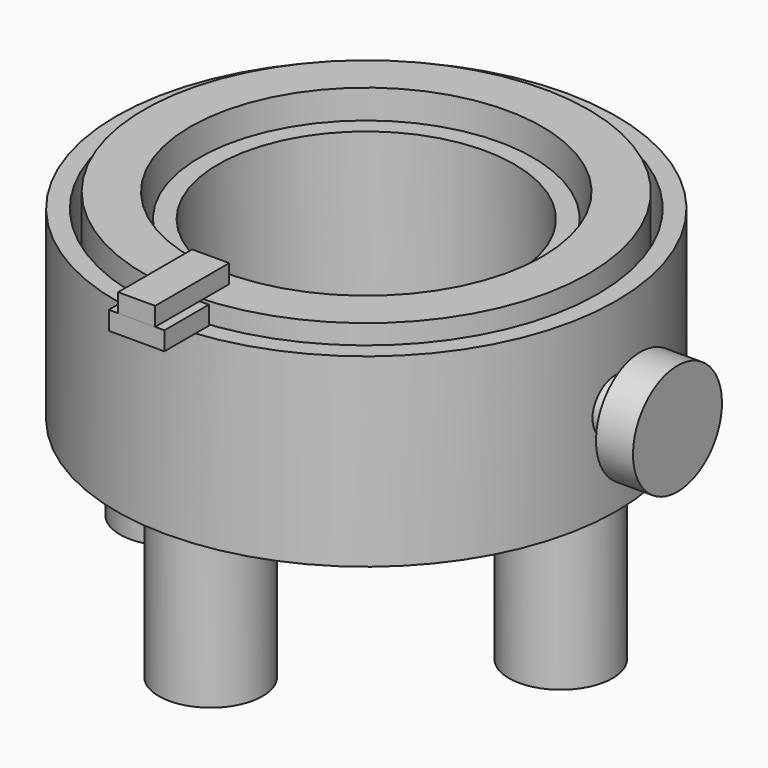
from build123d import *

# Parameters (mm, degrees)
SKETCH_W                = 10
SKETCH_H                = 100
SKETCH001_W             = 25
SKETCH001_H             = 105
SKETCH002_W             = 10
SKETCH002_H             = 95
CYLINDER_R              = 15
CYLINDER_DEPTH          = 30
CYLINDER_PITCH_ANGLE    = 90
CYLINDER001_R           = 30
CYLINDER001_DEPTH       = 20
CYLINDER001_PITCH_ANGLE = 90
CYLINDER002_R           = 28
CYLINDER002_DEPTH       = 80
ARRAY_COUNT             = 4
BOX_W                   = 30
BOX_H                   = 30
BOX_DEPTH               = 10
BOX001_W                = 20
BOX001_H                = 50
BOX001_DEPTH            = 10


with BuildPart() as revolution:
    # Sketch → Revolution (revolve)
    with BuildSketch(Plane.XZ):
        with Locations((130, 50)):
            Rectangle(SKETCH_W, SKETCH_H)
    revolve(axis=Axis((0, 0, 0), (0, 0, 1)))


with BuildPart() as revolution001:
    # Sketch001 → Revolution001 (revolve)
    with BuildSketch(Plane.XZ):
        with Locations((107.5, 55.5)):
            Rectangle(SKETCH001_W, SKETCH001_H)
    revolve(axis=Axis((0, 0, 0), (0, 0, 1)))


with BuildPart() as revolution002:
    # Sketch002 → Revolution002 (revolve)
    with BuildSketch(Plane.XZ):
        with Locations((85, 47.5)):
            Rectangle(SKETCH002_W, SKETCH002_H)
    revolve(axis=Axis((0, 0, 0), (0, 0, 1)))


with BuildPart() as cylinder:
    # Cylinder → Cylinder (new body)
    with BuildSketch(Plane.XY):
        Circle(CYLINDER_R)
    extrude(amount=CYLINDER_DEPTH)


with BuildPart() as cylinder_1:
    # Cylinder pitch: moved
    add(cylinder.part.rotate(Axis((0, 0, 0), (0, 1, 0)), CYLINDER_PITCH_ANGLE))


with BuildPart() as cylinder_2:
    # Cylinder placement: moved
    add(cylinder_1.part.moved(Location((130, 0, 50))))


with BuildPart() as cylinder001:
    # Cylinder001 → Cylinder001 (new body)
    with BuildSketch(Plane.XY):
        Circle(CYLINDER001_R)
    extrude(amount=CYLINDER001_DEPTH)


with BuildPart() as cylinder001_1:
    # Cylinder001 pitch: moved
    add(cylinder001.part.rotate(Axis((0, 0, 0), (0, 1, 0)), CYLINDER001_PITCH_ANGLE))


with BuildPart() as cylinder001_2:
    # Cylinder001 placement: moved
    add(cylinder001_1.part.moved(Location((148, 0, 50))))


with BuildPart() as array:
    # Cylinder002 → Cylinder002 (new body)
    with BuildSketch(Plane(origin=(0, 105, -80), x_dir=(1, 0, 0), z_dir=(0, 0, 1))):
        Circle(CYLINDER002_R)
    extrude(amount=CYLINDER002_DEPTH)

    # Array: Array ×4 about axis
    array_axis = Axis((0, 0, 0), (0, 0, 1))


with BuildPart() as array_1:
    add(array.part)
    for i in range(1, ARRAY_COUNT):
        add(array.part.rotate(array_axis, i * 360 / ARRAY_COUNT))


with BuildPart() as cube:
    # Box → Box (new body)
    with BuildSketch(Plane(origin=(-15, -155, 100), x_dir=(1, 0, 0), z_dir=(0, 0, 1))):
        with Locations((15, 15)):
            Rectangle(BOX_W, BOX_H)
    extrude(amount=BOX_DEPTH)


with BuildPart() as cube001:
    # Box001 → Box001 (new body)
    with BuildSketch(Plane(origin=(-10, -155, 110), x_dir=(1, 0, 0), z_dir=(0, 0, 1))):
        with Locations((10, 25)):
            Rectangle(BOX001_W, BOX001_H)
    extrude(amount=BOX001_DEPTH)


solid = Compound([revolution.part, revolution001.part, revolution002.part, cylinder_2.part, cylinder001_2.part, array_1.part, cube.part, cube001.part])
